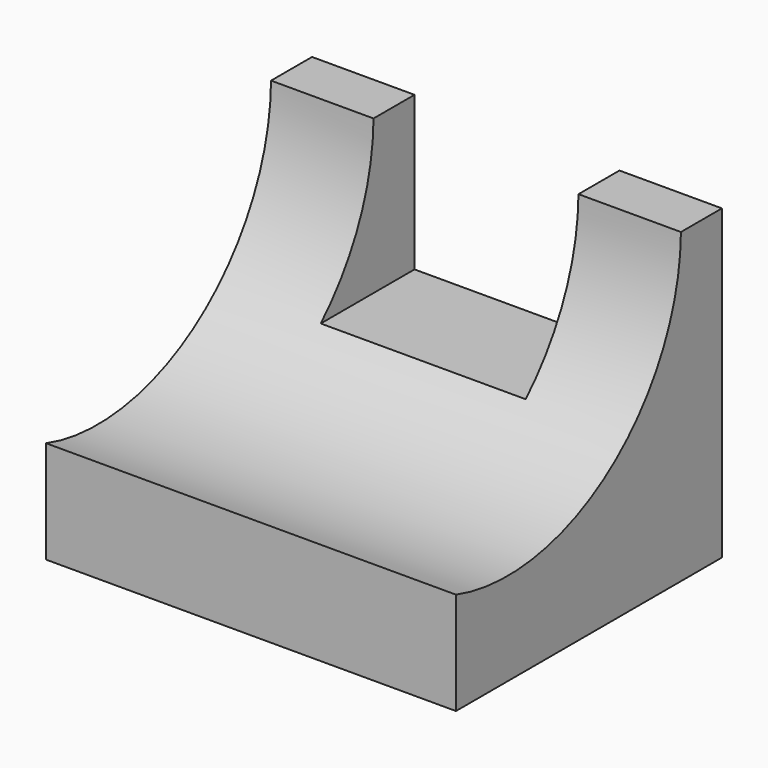
from build123d import *

# Parameters (mm, degrees)
F1_DEPTH = 50.8
F3_DEPTH = 50.8
F4_W     = 25.4
F4_H     = 19.05
F5_DEPTH = 19.05
F6_W     = 25.4
F6_H     = 19.05
F7_DEPTH = 19.05


with BuildPart() as f1:
    # F0 (on Right) → F1 (new body)
    with BuildSketch(Plane.YZ):
        Polygon((54.258809, 18.462197), (54.258809, 56.562197), (47.908809, 56.562197), (13.055639, 31.162197), (13.055639, 18.462197), align=None)
    extrude(amount=F1_DEPTH)

    # F2 (on face) → F3 (cut)
    with BuildSketch(Plane(origin=(0, 0, 0), x_dir=(0, -1, 0), z_dir=(-1, 0, 0))):
        with BuildLine():
            Line((-13.055639, 31.162197), (-47.908809, 56.562197))
            ThreePointArc((-47.908809, 56.562197), (-36.867348, 35.100708), (-13.055639, 31.162197))
        make_face()
    extrude(amount=-F3_DEPTH, mode=Mode.SUBTRACT)

    # F4 (on Front) → F5 (cut)
    with BuildSketch(Plane.XZ):
        with Locations((25.4, 49.807958)):
            Rectangle(F4_W, F4_H)
    extrude(amount=-F5_DEPTH, mode=Mode.SUBTRACT)

    # F6 (on face) → F7 (cut)
    with BuildSketch(Plane(origin=(0, 54.258809, 0), x_dir=(-1, 0, 0), z_dir=(0, 1, 0))):
        with Locations((-25.4, 47.037197)):
            Rectangle(F6_W, F6_H)
    extrude(amount=-F7_DEPTH, mode=Mode.SUBTRACT)


solid = f1.part
